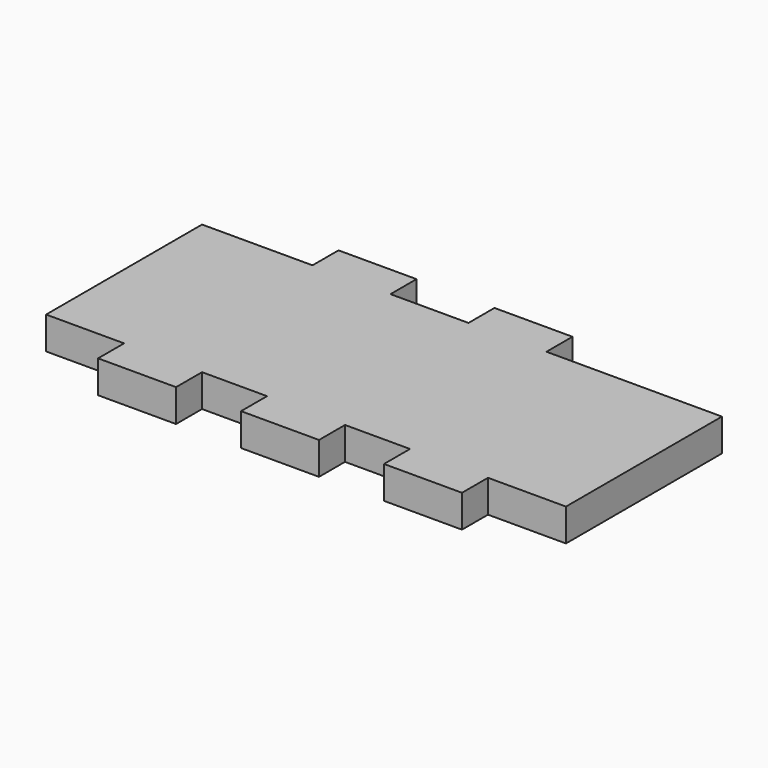
from build123d import *

# Parameters (mm, degrees)
F1_DEPTH = 3.175
F2_DEPTH = 9.525
F3_DEPTH = 9.525
F4_DEPTH = 6.35


with BuildPart() as f1:
    # F0 (on Top) → F1 (new body)
    with BuildSketch(Plane.XY):
        Polygon((0, 12.7), (0, 0), (7.62, 0), (7.62, -12.7), (15.24, -12.7), (15.24, 0), (21.59, 0), (21.59, -12.7), (29.21, -12.7), (29.21, 0), (35.56, 0), (35.56, -12.7), (43.18, -12.7), (43.18, 0), (50.8, 0), (50.8, 12.7), (33.655, 12.7), (33.655, 25.4), (26.035, 25.4), (26.035, 12.7), (18.415, 12.7), (18.415, 25.4), (10.795, 25.4), (10.795, 12.7), align=None)
    extrude(amount=F1_DEPTH)

    # F2 (cut): faces of the model
    f2_faces = [f1.faces().sort_by_distance(p)[0] for p in [
        (14.605, 25.4, 1.5875),
        (29.845, 25.4, 1.5875),
    ]]
    extrude(f2_faces, amount=-F2_DEPTH, mode=Mode.SUBTRACT)

    # F3 (cut): faces of the model
    f3_faces = [f1.faces().sort_by_distance(p)[0] for p in [
        (39.37, -12.7, 1.5875),
        (25.4, -12.7, 1.5875),
        (11.43, -12.7, 1.5875),
    ]]
    extrude(f3_faces, amount=-F3_DEPTH, mode=Mode.SUBTRACT)

    # F4 (add): faces of the model
    f4_faces = [f1.faces().sort_by_distance(p)[0] for p in [
        (42.2275, 12.7, 1.5875),
        (29.845, 15.875, 1.5875),
        (22.225, 12.7, 1.5875),
        (14.605, 15.875, 1.5875),
        (5.3975, 12.7, 1.5875),
    ]]
    extrude(f4_faces, amount=F4_DEPTH)


solid = f1.part
